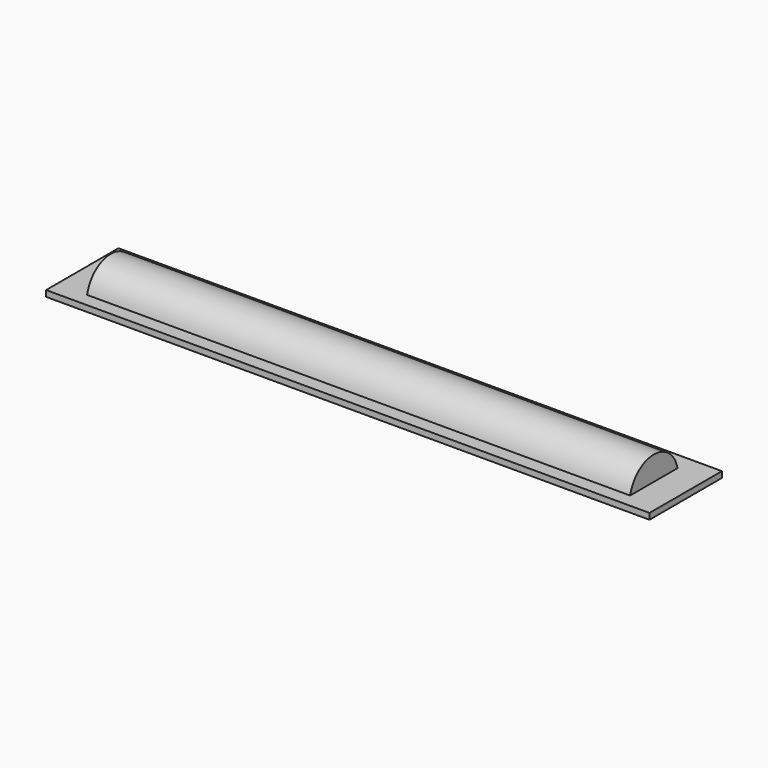
from build123d import *

# Parameters (mm, degrees)
F0_W     = 100
F0_H     = 15
F1_DEPTH = 1
F2_W     = 90
F2_H     = 5
F3_ANGLE = 180


with BuildPart() as f1:
    # F0 (on Top) → F1 (new body)
    with BuildSketch(Plane.XY):
        Rectangle(F0_W, F0_H)
    extrude(amount=F1_DEPTH)

    # F2 (on Top) → F3 (revolve)
    with BuildSketch(Plane.XY):
        with Locations((0, -2.855439)):
            Rectangle(F2_W, F2_H)
    revolve(axis=Axis((0, -0.355439, 0), (-1, 0, 0)), revolution_arc=F3_ANGLE)


solid = f1.part
